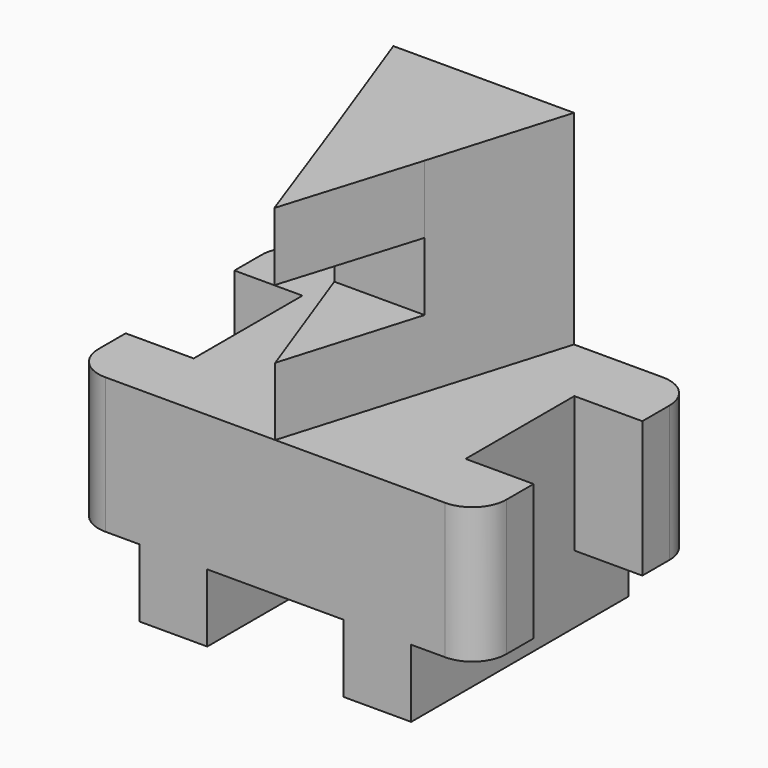
from build123d import *

# Parameters (mm, degrees)
F1_DEPTH  = 25.4
F3_DEPTH  = 12.7
F5_DEPTH  = 12.7
F7_DEPTH  = 12.7
F9_DEPTH  = 12.7
F10_DEPTH = 12.7


with BuildPart() as f1:
    # F0 (on Top) → F1 (new body)
    with BuildSketch(Plane.XY):
        with BuildLine():
            ThreePointArc((0, 6.35), (1.8598719395, 1.8598719395), (6.35, 0))
            Line((6.35, 0), (69.85, 0))
            ThreePointArc((69.85, 0), (74.3401280605, 1.8598719395), (76.2, 6.35))
            Line((76.2, 6.35), (76.2, 12.7))
            Line((76.2, 12.7), (63.5, 12.7))
            Line((63.5, 12.7), (63.5, 25.4))
            Line((63.5, 25.4), (63.5, 38.1))
            Line((63.5, 38.1), (76.2, 38.1))
            Line((76.2, 38.1), (76.2, 44.45))
            ThreePointArc((76.2, 44.45), (74.3401280605, 48.9401280605), (69.85, 50.8))
            Line((69.85, 50.8), (6.35, 50.8))
            ThreePointArc((6.35, 50.8), (1.8598719395, 48.9401280605), (0, 44.45))
            Line((0, 44.45), (0, 38.1))
            Line((0, 38.1), (12.7, 38.1))
            Line((12.7, 38.1), (12.7, 25.4))
            Line((12.7, 25.4), (12.7, 12.7))
            Line((12.7, 12.7), (0, 12.7))
            Line((0, 12.7), (0, 6.35))
        make_face()
    extrude(amount=F1_DEPTH)

    # F2 (on face) → F3 (join)
    with BuildSketch(Plane(origin=(0, 0, 0), x_dir=(1, 0, 0), z_dir=(0, 0, -1))):
        Polygon((63.5, -12.7), (63.5, 0), (50.8120395243, 0), (50.8120395243, -50.8), (63.5, -50.8), (63.5, -38.1), align=None)
        Polygon((25.4, -50.8), (25.4, 0), (12.7, 0), (12.7, -12.7), (12.7, -38.1), (12.7, -50.8), align=None)
    extrude(amount=F3_DEPTH)

    # F4 (on face) → F5 (join)
    with BuildSketch(Plane.XY.offset(25.4)):
        Polygon((19.5285081863, 50.8), (38.1, 0), (53.2767996192, 50.8), align=None)
    extrude(amount=F5_DEPTH)

    # F6 (on face) → F7 (join)
    with BuildSketch(Plane.XY.offset(38.1)):
        Polygon((19.5285081863, 50.8), (28.8142540932, 25.4), (45.6883998096, 25.4), (53.2767996192, 50.8), align=None)
    extrude(amount=F7_DEPTH)

    # F10 (add): a face of the model
    f10_faces = [f1.faces().sort_by_distance(p)[0] for p in [
        (36.7798419244, 39.5111111111, 50.8),
    ]]


with BuildPart() as f9:
    # F8 (on face) → F9 (new body)
    with BuildSketch(Plane.XY.offset(50.8)):
        Polygon((45.6883998096, 25.4), (28.8142540932, 25.4), (37.9194319248, 0), align=None)
    extrude(amount=F9_DEPTH)


with BuildPart() as f1_1:
    add(f1.part)

    add(f9.part)  # F10 merges F9
    extrude(f10_faces, amount=F10_DEPTH)


solid = f1_1.part
